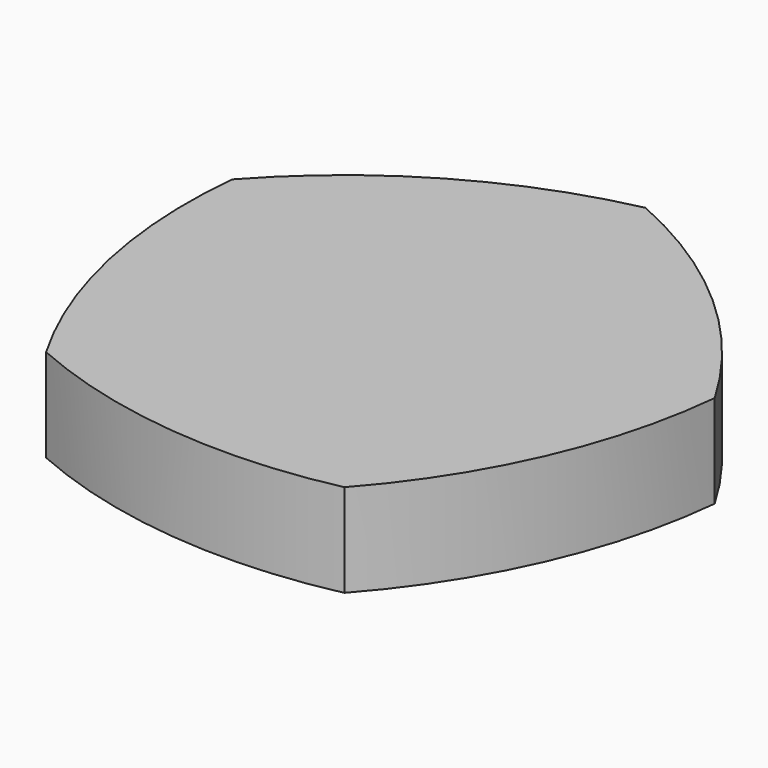
from build123d import *

# Parameters (mm, degrees)
F1_DEPTH = 25


with BuildPart() as f1:
    # F0 (on Top) → F1 (new body)
    with BuildSketch(Plane.XY):
        with BuildLine():
            ThreePointArc((-49.715382543, -55.6013963989), (-6.8009476536, -66.9407953487), (37.5171722726, -64.4639149259))
            ThreePointArc((37.5171722726, -64.4639149259), (61.5628712195, -27.1539289627), (72.9022701693, 15.7605059268))
            ThreePointArc((72.9022701693, 15.7605059268), (44.8488945123, 50.1587443216), (7.5389085491, 74.2044432685))
            ThreePointArc((7.5389085491, 74.2044432685), (-33.844730053, 58.1537377864), (-68.2429684479, 30.1003621294))
            ThreePointArc((-68.2429684479, 30.1003621294), (-65.7660880251, -14.2177577968), (-49.715382543, -55.6013963989))
        make_face()
    extrude(amount=F1_DEPTH)


solid = f1.part
